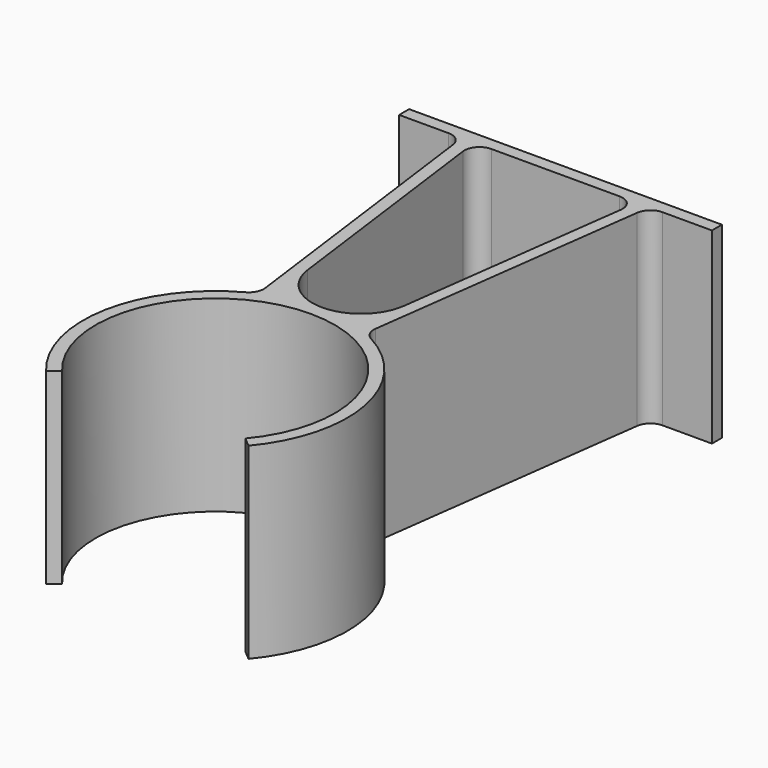
from build123d import *

# Parameters (mm, degrees)
F1_DEPTH = 19.05


with BuildPart() as f1:
    # F0 (on Top) → F1 (new body)
    with BuildSketch(Plane.XY):
        with BuildLine():
            ThreePointArc((-9.300699, -7.804213), (0, 12.1412), (9.300699, -7.804213))
            Line((9.300699, -7.804213), (10.273575, -8.620553))
            ThreePointArc((10.273575, -8.620553), (13.17396, 2.511385), (6.381598, 11.795571))
            ThreePointArc((6.381598, 11.795571), (5.749405, 12.443078), (5.595818, 13.334898))
            Line((5.595818, 13.334898), (9.35055, 41.854922))
            ThreePointArc((9.35055, 41.854922), (9.856669, 42.801804), (10.861512, 43.18))
            Line((10.861512, 43.18), (15.875, 43.18))
            Line((15.875, 43.18), (15.875, 44.45))
            Line((15.875, 44.45), (-15.875, 44.45))
            Line((-15.875, 44.45), (-15.875, 43.18))
            Line((-15.875, 43.18), (-10.861512, 43.18))
            ThreePointArc((-10.861512, 43.18), (-9.856669, 42.801804), (-9.35055, 41.854922))
            Line((-9.35055, 41.854922), (-5.595818, 13.334898))
            ThreePointArc((-5.595818, 13.334898), (-5.749405, 12.443078), (-6.381598, 11.795571))
            ThreePointArc((-6.381598, 11.795571), (-13.17396, 2.511385), (-10.273575, -8.620553))
            Line((-10.273575, -8.620553), (-9.300699, -7.804213))
        make_face()
        with BuildLine():
            ThreePointArc((-8.017214, 41.457078), (-7.652056, 42.660843), (-6.506252, 43.18))
            Line((-6.506252, 43.18), (6.506252, 43.18))
            ThreePointArc((6.506252, 43.18), (7.652056, 42.660843), (8.017214, 41.457078))
            Line((8.017214, 41.457078), (4.910626, 17.860201))
            ThreePointArc((4.910626, 17.860201), (0, 13.553697), (-4.910626, 17.860201))
            Line((-4.910626, 17.860201), (-8.017214, 41.457078))
        make_face(mode=Mode.SUBTRACT)
    extrude(amount=F1_DEPTH)


solid = f1.part
